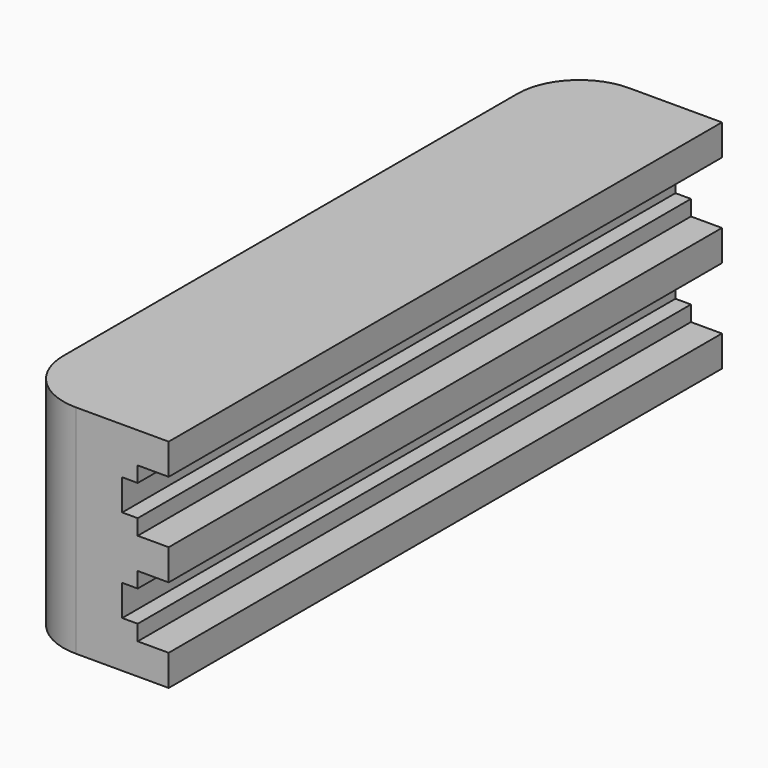
from build123d import *

# Parameters (mm, degrees)
F0_W     = 7.9375
F0_H     = 35.433
F1_DEPTH = 11.1125
F3_DEPTH = 35.433
F4_R     = 1.35255
F5_DEPTH = 4.7625
F6_R     = 3.175


with BuildPart() as f1:
    # F0 (on Top) → F1 (new body)
    with BuildSketch(Plane.XY):
        Rectangle(F0_W, F0_H)
    extrude(amount=F1_DEPTH)

    # F2 (on face) → F3 (cut, through all)
    with BuildSketch(Plane.XZ.offset(17.7165)):
        Polygon((3.96875, 9.525), (2.38125, 9.525), (2.38125, 8.73125), (1.5875, 8.73125), (1.5875, 7.14375), (2.38125, 7.14375), (2.38125, 6.35), (3.96875, 6.35), align=None)
        Polygon((3.96875, 4.7625), (2.38125, 4.7625), (2.38125, 3.96875), (1.5875, 3.96875), (1.5875, 2.38125), (2.38125, 2.38125), (2.38125, 1.5875), (3.96875, 1.5875), align=None)
    extrude(amount=-F3_DEPTH, mode=Mode.SUBTRACT)

    # F4 (on face) → F5 (cut)
    with BuildSketch(Plane(origin=(0, 0, 0), x_dir=(1, 0, 0), z_dir=(0, 0, -1))):
        with Locations((-0.79375, 14.5415)):
            Circle(F4_R)
        with Locations((-0.79375, -14.5415)):
            Circle(F4_R)
    extrude(amount=-F5_DEPTH, mode=Mode.SUBTRACT)

    # F6
    f6_edges = [f1.edges().sort_by_distance(p)[0] for p in [
        (-3.96875, 17.7165, 5.55625),
        (-3.96875, -17.7165, 5.55625),
    ]]
    fillet(f6_edges, radius=F6_R)


solid = f1.part
